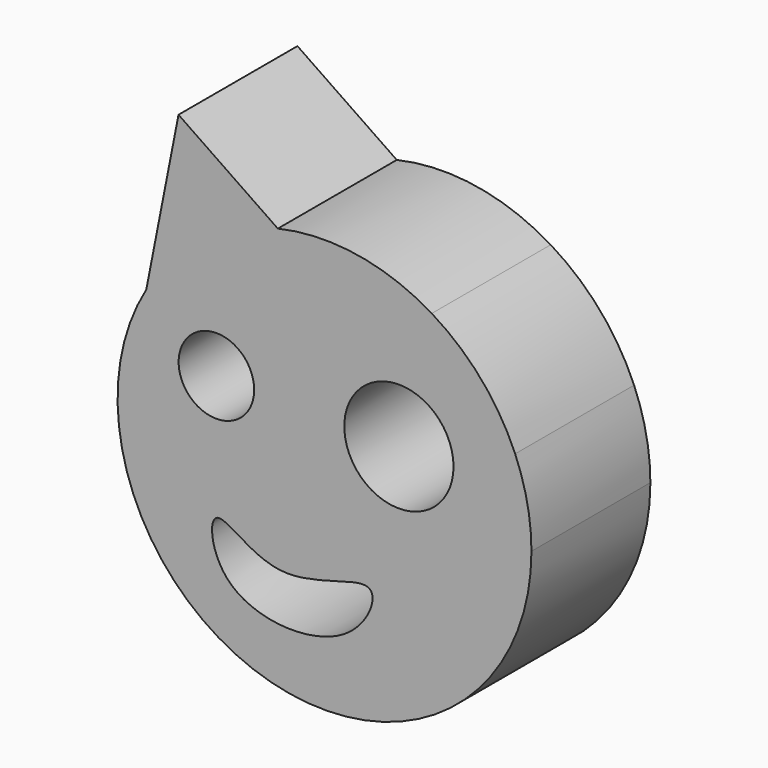
from build123d import *

# Parameters (mm, degrees)
F0_R     = 7.7440612589
F0_R_2   = 11.1948658998
F1_DEPTH = 30.48


with BuildPart() as f1:
    # F0 (on Front) → F1 (new body)
    with BuildSketch(Plane.XZ):
        with BuildLine():
            Line((-29.9317985773, 55.258706212), (-36.5318423106, 21.5723708477))
            ThreePointArc((-36.5318423106, 21.5723708477), (-25.078874165, 34.2197714372), (-9.5695863399, 41.3323808155))
            Line((-9.5695863399, 41.3323808155), (-29.9317985773, 55.258706212))
        make_face()
        with BuildLine():
            ThreePointArc((-41.5147718494, -8.7445071268), (4.3959143597, -42.1973769746), (42.4257314209, 0))
            ThreePointArc((42.4257314209, 0), (41.5824329796, 8.4168850587), (39.0860622287, 16.4991644047))
            ThreePointArc((39.0860622287, 16.4991644047), (32.0996528961, 27.7408538179), (21.989036519, 36.2825710164))
            ThreePointArc((21.989036519, 36.2825710164), (6.7034193095, 41.8928019612), (-9.5695863399, 41.3323808155))
            ThreePointArc((-9.5695863399, 41.3323808155), (-25.078874165, 34.2197714372), (-36.5318423106, 21.5723708477))
            ThreePointArc((-36.5318423106, 21.5723708477), (-41.8640271353, 6.8808370572), (-41.5147718494, -8.7445071268))
        make_face()
        with BuildLine():
            add(Edge.make_bspline(
                [(-22.1610441804, -14.9658992887), (-20.255329571, -13.9210623976), (-15.4016609259, -19.340178891), (-9.2097846791, -20.1464034617)],
                knots=[0, 0, 0, 0, 0.1912524285, 0.1912524285, 0.1912524285, 0.1912524285], degree=3))
            add(Edge.make_bspline(
                [(-9.2097846791, -20.1464034617), (-2.0595940074, -21.0774071147), (13.6055276921, -11.9247658545), (5.9730328386, -31.9282980527), (-22.2913167062, -30.8230217802), (-23.8502365199, -15.8920245666), (-22.1610441804, -14.9658992887)],
                knots=[0.1912524285, 0.1912524285, 0.1912524285, 0.1912524285, 0.4121049254, 0.5784717634, 0.8304771683, 1, 1, 1, 1], degree=3))
        make_face(mode=Mode.SUBTRACT)
        Polygon((-7.4829505756, -12.6634538174), (-11.8000358343, -3.1658634543), (0, -4.8926980235), align=None, mode=Mode.SUBTRACT)
        with Locations((-22.1610441804, 10.6488130987)):
            Circle(F0_R, mode=Mode.SUBTRACT)
        with Locations((15.2537068352, 10.0732017308)):
            Circle(F0_R_2, mode=Mode.SUBTRACT)
        Polygon((0, -4.8926980235), (-11.8000358343, -3.1658634543), (-7.4829505756, -12.6634538174), align=None)
    extrude(amount=F1_DEPTH)


solid = f1.part
